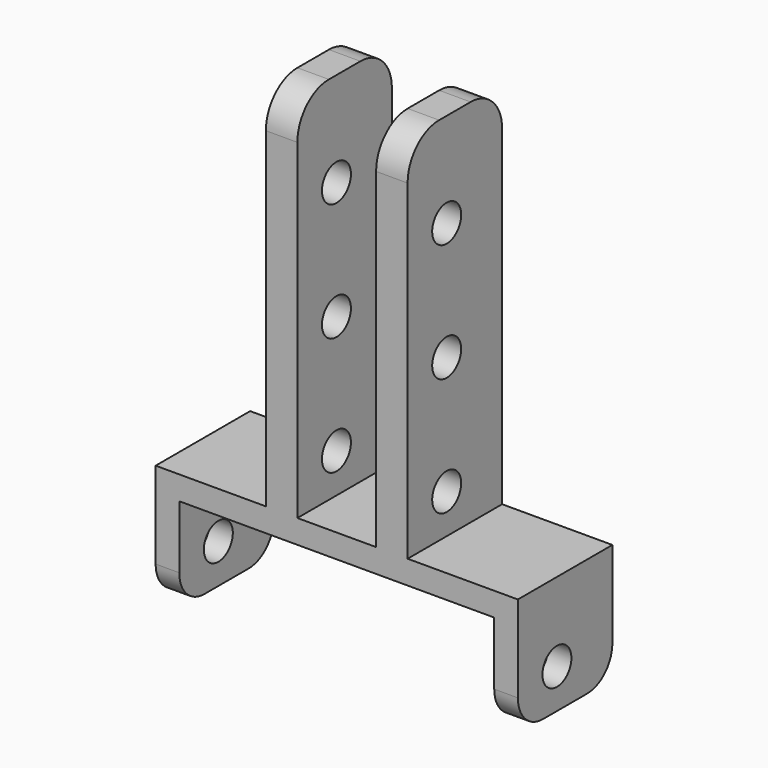
from build123d import *

# Parameters (mm, degrees)
CYLINDER_R     = 2.3
CYLINDER_DEPTH = 50
ARRAY_Z_COUNT  = 4
ARRAY_Z_PITCH  = 15
BOX_W          = 40
BOX_H          = 15
BOX_DEPTH      = 3
BOX002_W       = 4
BOX002_H       = 15
BOX002_DEPTH   = 50
FILLET_R       = 5
BOX001_W       = 3
BOX001_H       = 15
BOX001_DEPTH   = 15
FILLET001_R    = 4


with BuildPart() as bolt_hole_array:
    # Cylinder → Cylinder (new body)
    with BuildSketch(Plane(origin=(25, -1.3, -7), x_dir=(0, 0, 1), z_dir=(-1, 0, 0))):
        Circle(CYLINDER_R)
    extrude(amount=CYLINDER_DEPTH)

    # Array Z: bolt hole array ×4


with BuildPart() as bolt_hole_array_1:
    add(bolt_hole_array.part)
    with Locations(*[(0, 0, i * ARRAY_Z_PITCH) for i in range(1, ARRAY_Z_COUNT)]):
        add(bolt_hole_array.part)


with BuildPart() as top_panel:
    # Box → Box (new body)
    with BuildSketch(Plane(origin=(-20, -7.5, 0), x_dir=(1, 0, 0), z_dir=(0, 0, 1))):
        with Locations((20, 7.5)):
            Rectangle(BOX_W, BOX_H)
    extrude(amount=BOX_DEPTH)


with BuildPart() as vertical_cube_fillet:
    # Box002 → Box002 (new body)
    with BuildSketch(Plane(origin=(5, -7.5, 0), x_dir=(1, 0, 0), z_dir=(0, 0, 1))):
        with Locations((2, 7.5)):
            Rectangle(BOX002_W, BOX002_H)
    extrude(amount=BOX002_DEPTH)

    # Fillet
    fillet_edges = [vertical_cube_fillet.edges().sort_by_distance(p)[0] for p in [
        (7, -7.5, 50),
        (7, 7.5, 50),
    ]]
    fillet(fillet_edges, radius=FILLET_R)


with BuildPart() as part_mirroring001:
    # Part__Mirroring001: instance of vertical cube fillet
    add(vertical_cube_fillet.part.mirror(Plane(origin=(0, 0, 0), x_dir=(0, -1, 0), z_dir=(1, 0, 0))))


with BuildPart() as side_cube_fillet:
    # Box001 → Box001 (new body)
    with BuildSketch(Plane(origin=(20, -7.5, -12), x_dir=(1, 0, 0), z_dir=(0, 0, 1))):
        with Locations((1.5, 7.5)):
            Rectangle(BOX001_W, BOX001_H)
    extrude(amount=BOX001_DEPTH)

    # Fillet001
    fillet001_edges = [side_cube_fillet.edges().sort_by_distance(p)[0] for p in [
        (21.5, -7.5, -12),
        (21.5, 7.5, -12),
    ]]
    fillet(fillet001_edges, radius=FILLET001_R)


with BuildPart() as wire_holder_cut:
    # Part__Mirroring: instance of side cube fillet
    add(side_cube_fillet.part.mirror(Plane(origin=(0, 0, 0), x_dir=(0, -1, 0), z_dir=(1, 0, 0))))

    # Fusion: union top panel, Part__Mirroring001, vertical cube fillet, side cube fillet
    add(top_panel.part)
    add(part_mirroring001.part)
    add(vertical_cube_fillet.part)
    add(side_cube_fillet.part)

    # Cut: cut bolt hole array
    add(bolt_hole_array_1.part, mode=Mode.SUBTRACT)


solid = wire_holder_cut.part
